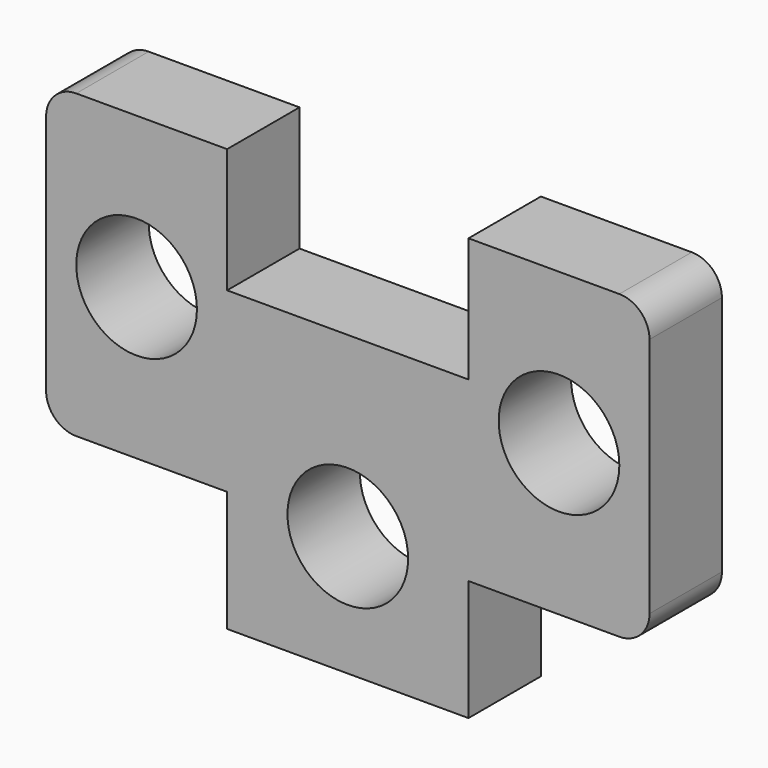
from build123d import *

# Parameters (mm, degrees)
F0_R     = 12.7
F1_DEPTH = 19.05


with BuildPart() as f1:
    # F0 (on Front) → F1 (new body)
    with BuildSketch(Plane.XZ):
        with BuildLine():
            Line((-43.05991, 46.274296), (-74.80991, 46.274296))
            ThreePointArc((-74.80991, 46.274296), (-79.300038, 44.414424), (-81.15991, 39.924296))
            Line((-81.15991, 39.924296), (-81.15991, -10.875704))
            ThreePointArc((-81.15991, -10.875704), (-79.300038, -15.365832), (-74.80991, -17.225704))
            Line((-74.80991, -17.225704), (-43.05991, -17.225704))
            Line((-43.05991, -17.225704), (-43.05991, -42.625704))
            Line((-43.05991, -42.625704), (7.74009, -42.625704))
            Line((7.74009, -42.625704), (7.74009, -17.225704))
            Line((7.74009, -17.225704), (39.49009, -17.225704))
            ThreePointArc((39.49009, -17.225704), (43.980218, -15.365832), (45.84009, -10.875704))
            Line((45.84009, -10.875704), (45.84009, 39.924296))
            ThreePointArc((45.84009, 39.924296), (43.980218, 44.414424), (39.49009, 46.274296))
            Line((39.49009, 46.274296), (7.74009, 46.274296))
            Line((7.74009, 46.274296), (7.74009, 20.111208))
            Line((7.74009, 20.111208), (-43.05991, 20.111208))
            Line((-43.05991, 20.111208), (-43.05991, 46.274296))
        make_face()
        with Locations((-17.65991, -17.225704)):
            Circle(F0_R, mode=Mode.SUBTRACT)
        with Locations((-62.10991, 14.524296)):
            Circle(F0_R, mode=Mode.SUBTRACT)
        with Locations((26.79009, 14.524296)):
            Circle(F0_R, mode=Mode.SUBTRACT)
    extrude(amount=F1_DEPTH)


solid = f1.part
